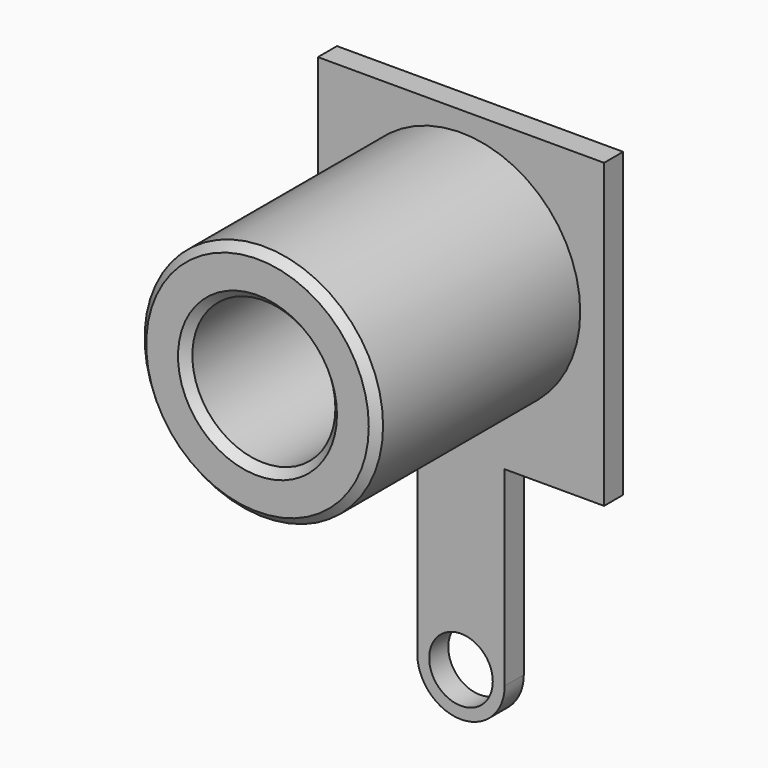
from build123d import *

# Parameters (mm, degrees)
SKETCH086_R     = 0.8
PAD049_DEPTH    = 0.6
SKETCH085_R     = 3
PAD050_DEPTH    = 6.4
SKETCH090_R     = 1.8
POCKET019_DEPTH = 9
CHAMFER005_SIZE = 0.2


with BuildPart() as part:
    # Sketch086 → Pad049 (new body)
    with BuildSketch(Plane.XZ):
        with BuildLine():
            Line((7.2, 7.6), (0, 7.6))
            Line((0, 7.6), (0, 0))
            Line((0, 0), (2.5, 0))
            Line((2.5, 0), (2.5, -4.8))
            ThreePointArc((2.5, -4.8), (3.6, -5.9), (4.7, -4.8))
            Line((4.7, -4.8), (4.7, 0))
            Line((4.7, 0), (7.2, 0))
            Line((7.2, 0), (7.2, 7.6))
        make_face()
        with Locations((3.6, -4.8)):
            Circle(SKETCH086_R, mode=Mode.SUBTRACT)
    extrude(amount=PAD049_DEPTH)

    # Sketch085 (on Face11 of Pad049) → Pad050 (join)
    with BuildSketch(Plane.XZ.offset(0.6)):
        with Locations((3.6, 4.1)):
            Circle(SKETCH085_R)
    extrude(amount=PAD050_DEPTH)

    # Sketch090 (on Face13 of Pad050) → Pocket019 (cut)
    with BuildSketch(Plane.XZ.offset(7)):
        with Locations((3.6, 4.1)):
            Circle(SKETCH090_R)
    extrude(amount=-POCKET019_DEPTH, mode=Mode.SUBTRACT)

    # Chamfer005
    chamfer005_edges = [part.edges().sort_by_distance(p)[0] for p in [
        (0.6, -7, 4.1),
        (1.8, -7, 4.1),
    ]]
    chamfer(chamfer005_edges, length=CHAMFER005_SIZE)


with BuildPart() as part_1:
    # Body013 placement: moved
    add(part.part.moved(Location((1.4, 2.6, 1.4))))


solid = part_1.part
